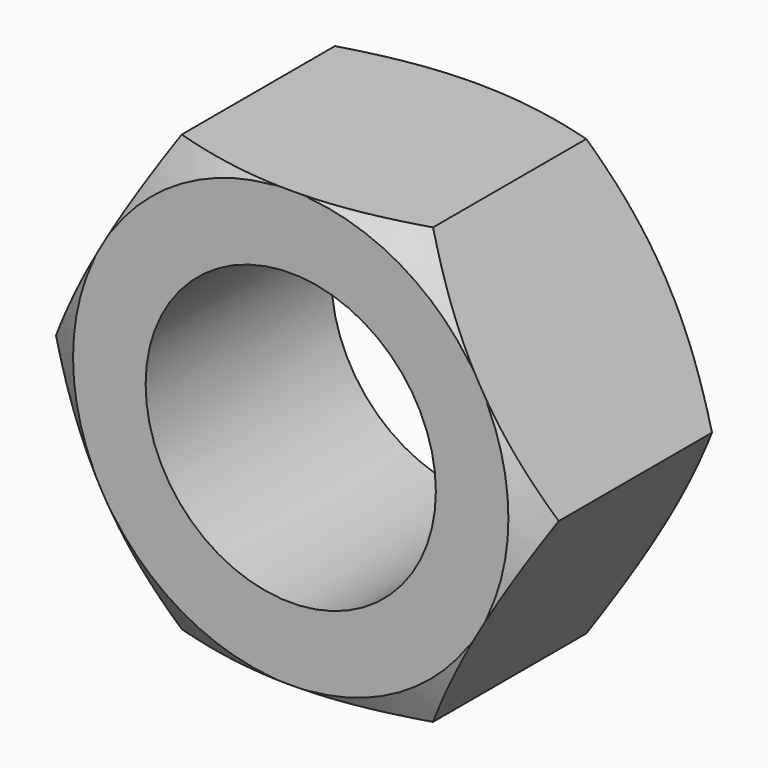
from build123d import *

# Parameters (mm, degrees)
F0_R     = 10
F1_DEPTH = 16


with BuildPart() as f1:
    # F0 (on Front) → F1 (new body)
    with BuildSketch(Plane.XZ):
        Polygon((-8.660254, -15), (8.660254, -15), (17.320508, 0), (8.660254, 15), (-8.660254, 15), (-17.320508, 0), align=None)
        Circle(F0_R, mode=Mode.SUBTRACT)
    extrude(amount=F1_DEPTH)

    # F2 (on Top) → F3 (revolve, cut)
    with BuildSketch(Plane.XY):
        Polygon((-15, 0), (0, 0), (0, 0.283312), (-18.262021, 0.283312), (-18.204793, -1.887205), align=None)
        Polygon((0, -16.128297), (0, -16), (-15, -16), (-18.306323, -13.957477), (-18.262021, -16.128297), align=None)
    revolve(axis=Axis((0, 0.141656, 0), (0, -1, 0)), mode=Mode.SUBTRACT)


solid = f1.part
